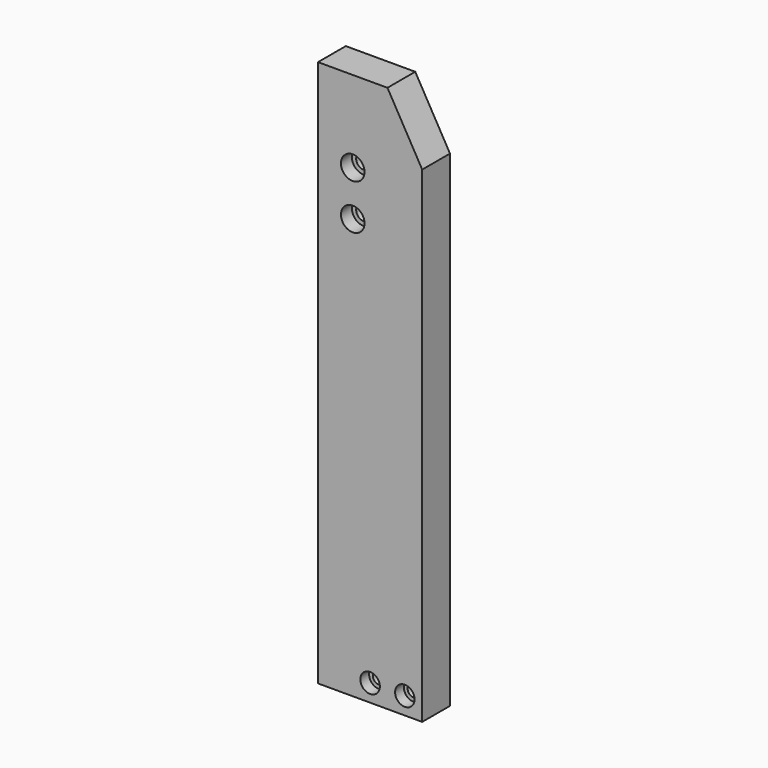
from build123d import *

# Parameters (mm, degrees)
F1_DEPTH       = 25.4
F3_D           = 8.5
F3_DEPTH       = 23.9
F3_TIP         = 2.5536576309
F5_D           = 8.8
F5_CBORE_D     = 14.25
F5_CBORE_DEPTH = 8
F7_D           = 11
F7_CBORE_D     = 17.25
F7_CBORE_DEPTH = 10


with BuildPart() as f1:
    # F0 (on Front) → F1 (new body)
    with BuildSketch(Plane.XZ):
        Polygon((0, 400), (0, 0), (76.2, 0), (76.2, 355.6), (50.8, 400), align=None)
    extrude(amount=F1_DEPTH)

    # F3
    with Locations(Plane(origin=(0, 0, 0), x_dir=(0, -1, 0), z_dir=(-1, 0, 0))):
        with Locations((12.7, 20), (12.7, 380)):
            Hole(F3_D / 2, depth=F3_DEPTH)
            with Locations((0, 0, -(F3_DEPTH + F3_TIP / 2))):  # 118° drill point
                Cone(0, F3_D / 2, F3_TIP, mode=Mode.SUBTRACT)

    # F5 (through all)
    with Locations(Plane.XZ.offset(25.4)):
        with Locations((38.1, 12.7), (63.5, 12.7)):
            CounterBoreHole(F5_D / 2, F5_CBORE_D / 2, F5_CBORE_DEPTH)

    # F7 (through all)
    with Locations(Plane.XZ.offset(25.4)):
        with Locations((25.4, 340.31), (25.4, 307.29)):
            CounterBoreHole(F7_D / 2, F7_CBORE_D / 2, F7_CBORE_DEPTH)


solid = f1.part
